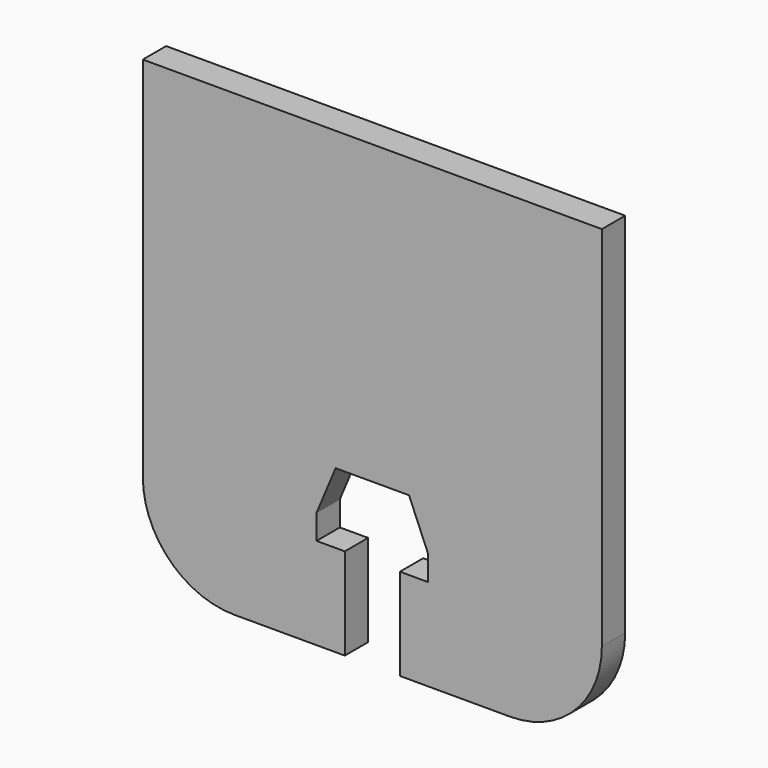
from build123d import *

# Parameters (mm, degrees)
F1_DEPTH = 6.35


with BuildPart() as f1:
    # F0 (on Front) → F1 (new body)
    with BuildSketch(Plane.XZ):
        with BuildLine():
            Line((50, 50), (-50, 50))
            Line((-50, 50), (-50, -30))
            ThreePointArc((-50, -30), (-44.142136, -44.142136), (-30, -50))
            Line((-30, -50), (-6, -50))
            Line((-6, -50), (-6, -30))
            Line((-6, -30), (-12.15, -30))
            Line((-12.15, -30), (-12.15, -24.6))
            Line((-12.15, -24.6), (-8, -14.7))
            Line((-8, -14.7), (8, -14.7))
            Line((8, -14.7), (12.15, -24.6))
            Line((12.15, -24.6), (12.15, -30))
            Line((12.15, -30), (6, -30))
            Line((6, -30), (6, -50))
            Line((6, -50), (30, -50))
            ThreePointArc((30, -50), (44.142136, -44.142136), (50, -30))
            Line((50, -30), (50, 50))
        make_face()
    extrude(amount=F1_DEPTH)


solid = f1.part
